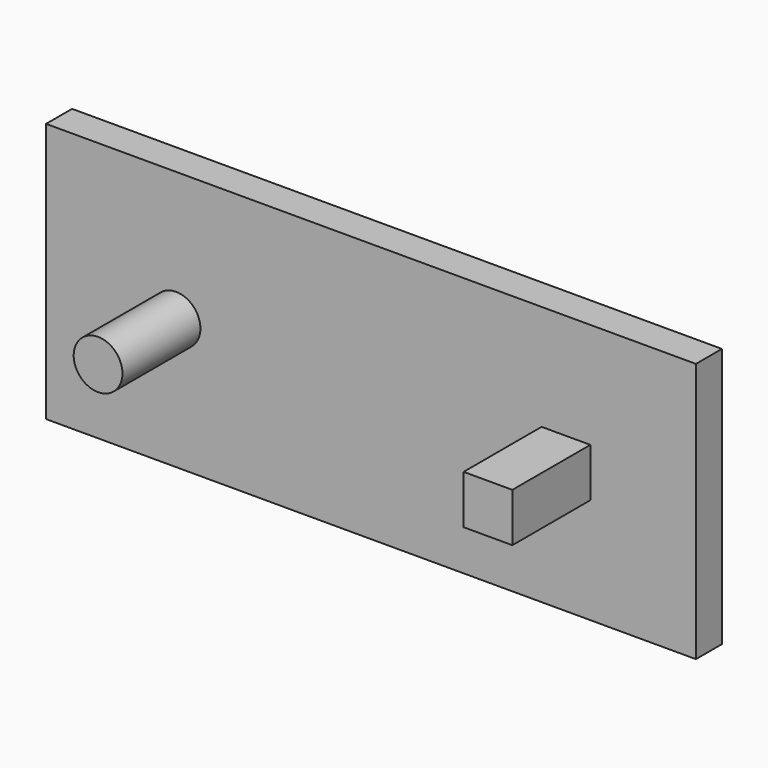
from build123d import *

# Parameters (mm, degrees)
F0_R     = 4.7625
F0_W     = 9.525
F0_H     = 9.525
F1_DEPTH = 25.4
F0_W_2   = 127
F0_H_2   = 50.8
F2_DEPTH = 6.35


with BuildPart() as f1:
    # F0 (on Front) → F1 (new body)
    with BuildSketch(Plane.XZ):
        with Locations((-38.1, 0)):
            Circle(F0_R)
        with Locations((38.1, 0)):
            Rectangle(F0_W, F0_H)
    extrude(amount=F1_DEPTH)


with BuildPart() as f2:
    # F0 (on Front) → F2 (new body)
    with BuildSketch(Plane.XZ):
        Rectangle(F0_W_2, F0_H_2)
        with Locations((-38.1, 0)):
            Circle(F0_R, mode=Mode.SUBTRACT)
        with Locations((38.1, 0)):
            Rectangle(F0_W, F0_H, mode=Mode.SUBTRACT)
    extrude(amount=F2_DEPTH)


solid = Compound([f1.part, f2.part])
